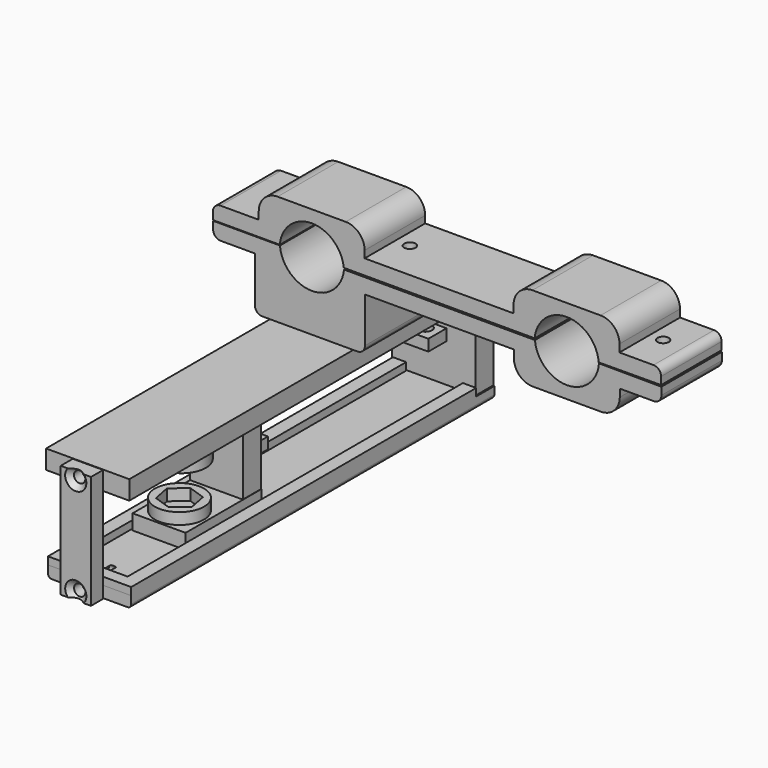
from build123d import *

# Parameters (mm, degrees)
PAD_DEPTH               = 20
SKETCH_R                = 1
HOLE_DEPTH              = 4
HOLE_TIPS_R             = 1
SKETCH005_R             = 1.25
HOLE001_DEPTH           = 10
HOLE001_TIPS_R          = 1.25
FILLET_R                = 2
FILLET001_R             = 2
FILLET002_R             = 5
FILLET003_R             = 5
FILLET004_R             = 2
FILLET005_R             = 2
PAD001_DEPTH            = 20
SKETCH010_R             = 1.5
HOLE002_DEPTH           = 25
FILLET006_R             = 2
FILLET007_R             = 5
FILLET008_R             = 5
FILLET009_R             = 5
FILLET010_R             = 5
FILLET011_R             = 2
BODY002_PLACEMENT_ANGLE = 180
SKETCH012_W             = 22
SKETCH012_H             = 120
PAD002_DEPTH            = 3
PAD003_DEPTH            = 2
SKETCH003_R             = 1
HOLE004_DEPTH           = 25
HOLE004_TIPS_R          = 1
SKETCH004_R             = 1.5
HOLE003_DEPTH           = 25
SKETCH013_R             = 1.25
HOLE005_DEPTH           = 6
BODY_PLACEMENT_ANGLE    = 180
SKETCH014_W             = 22
SKETCH014_H             = 24
PAD004_DEPTH            = 6
SKETCH015_R             = 1.25
HOLE006_DEPTH           = 25
SKETCH002_W             = 7
SKETCH002_H             = 6
SKETCH002_R             = 1.75
PAD005_DEPTH            = 3
BODY003_PLACEMENT_ANGLE = 90
SKETCH016_W             = 8
SKETCH016_H             = 30
PAD006_DEPTH            = 4
HOLE007_D               = 3
HOLE007_DEPTH           = 25
HOLE007_CSINK_D         = 5.6
HOLE007_CSINK_ANGLE     = 90
BODY004_PLACEMENT_ANGLE = 90
SKETCH018_W             = 22
SKETCH018_H             = 120
PAD007_DEPTH            = 3
PAD008_DEPTH            = 2
SKETCH021_R             = 1.5
HOLE009_DEPTH           = 25
SKETCH022_R             = 1.25
HOLE010_DEPTH           = 8
HOLE010_TIPS_R          = 1.25
FILLET012_R             = 1
FILLET013_R             = 1
BODY005_PLACEMENT_ANGLE = 180
SKETCH024_W             = 14
SKETCH024_H             = 25.014092
SKETCH024_R             = 1.5
PAD010_DEPTH            = 4
SKETCH023_R             = 6.5
PAD009_DEPTH            = 3
SKETCH026_W             = 14
SKETCH026_H             = 25.014092
SKETCH026_R             = 1.5
PAD012_DEPTH            = 4
SKETCH025_R             = 6.5
PAD011_DEPTH            = 3
SKETCH027_R             = 3
HOLE011_DEPTH           = 25
BODY007_PLACEMENT_ANGLE = 180
SKETCH028_W             = 14
SKETCH028_H             = 15
PAD013_DEPTH            = 6
SKETCH029_R             = 1.25
HOLE012_DEPTH           = 25
SKETCH030_W             = 8
SKETCH030_H             = 6
SKETCH030_R             = 1.75
PAD014_DEPTH            = 3
BODY008_ROLL_ANGLE      = -90
BODY008_PLACEMENT_ANGLE = 180


with BuildPart() as base_high:
    # Sketch009 → Pad (new body)
    with BuildSketch(Plane.XZ):
        with BuildLine():
            Line((-26.133633, -0.895694), (-8.472145, -0.895694))
            ThreePointArc((-8.472145, -0.895694), (-0.043518, -8.703667), (8.463973, -0.981699))
            Line((8.463973, -0.981699), (58.934597, -0.981699))
            ThreePointArc((58.934597, -0.981699), (67.448074, -8.719684), (75.874185, -0.886654))
            Line((75.874185, -0.886654), (92.37126, -0.974902))
            Line((92.37126, -0.974902), (92.37126, -4.974902))
            Line((81.37126, -4.974902), (92.37126, -4.974902))
            Line((81.37126, -11.974902), (81.37126, -4.974902))
            Line((81.37126, -11.974902), (53.37127, -11.974902))
            Line((53.37127, -4.973421), (53.37127, -11.974902))
            Line((53.37127, -4.973421), (13.999959, -4.973421))
            Line((13.999959, -4.973421), (13.999959, -18.895694))
            Line((13.999959, -18.895694), (-15.133633, -18.895694))
            Line((-15.133633, -18.895694), (-15.133633, -4.895694))
            Line((-26.133633, -4.895694), (-15.133633, -4.895694))
            Line((-26.133633, -4.895694), (-26.133633, -0.895694))
        make_face()
    extrude(amount=PAD_DEPTH)

    # Sketch (on Face2 of Pad) → Hole (cut)
    with BuildSketch(Plane(origin=(0, 0, 0.104306), x_dir=(-1, 0, 0), z_dir=(0, 0, 1))):
        with Locations((-84.91581, 10.087888)):
            Circle(SKETCH_R)
        with Locations((-50.023758, 9.938404)):
            Circle(SKETCH_R)
        with Locations((-17.740429, 9.851715)):
            Circle(SKETCH_R)
        with Locations((17.708694, 9.641117)):
            Circle(SKETCH_R)
    extrude(amount=-HOLE_DEPTH, mode=Mode.SUBTRACT)

    # Hole tips → Hole tip 1 section 0
    with BuildSketch(Plane(origin=(0, 0, -3.895694), x_dir=(-1, 0, 0), z_dir=(0, 0, 1)), mode=Mode.PRIVATE) as hole_tip_1_s0:
        with Locations((-84.91581, 10.087888)):
            Circle(HOLE_TIPS_R)
    loft([hole_tip_1_s0.sketch, Vertex(84.91581, -10.087888, -4.496555)], mode=Mode.SUBTRACT)

    # Hole tips → Hole tip 2 section 0
    with BuildSketch(Plane(origin=(0, 0, -3.895694), x_dir=(-1, 0, 0), z_dir=(0, 0, 1)), mode=Mode.PRIVATE) as hole_tip_2_s0:
        with Locations((-50.023758, 9.938404)):
            Circle(HOLE_TIPS_R)
    loft([hole_tip_2_s0.sketch, Vertex(50.023758, -9.938404, -4.496555)], mode=Mode.SUBTRACT)

    # Hole tips → Hole tip 3 section 0
    with BuildSketch(Plane(origin=(0, 0, -3.895694), x_dir=(-1, 0, 0), z_dir=(0, 0, 1)), mode=Mode.PRIVATE) as hole_tip_3_s0:
        with Locations((-17.740429, 9.851715)):
            Circle(HOLE_TIPS_R)
    loft([hole_tip_3_s0.sketch, Vertex(17.740429, -9.851715, -4.496555)], mode=Mode.SUBTRACT)

    # Hole tips → Hole tip 4 section 0
    with BuildSketch(Plane(origin=(0, 0, -3.895694), x_dir=(-1, 0, 0), z_dir=(0, 0, 1)), mode=Mode.PRIVATE) as hole_tip_4_s0:
        with Locations((17.708694, 9.641117)):
            Circle(HOLE_TIPS_R)
    loft([hole_tip_4_s0.sketch, Vertex(-17.708694, -9.641117, -4.496555)], mode=Mode.SUBTRACT)

    # Sketch005 (on Face19 of Hole) → Hole001 (cut)
    with BuildSketch(Plane(origin=(-11, 74, -19.895694), x_dir=(1, 0, 0), z_dir=(0, 0, -1))):
        with Locations((1.674046, 88.011063)):
            Circle(SKETCH005_R)
        with Locations((20.15472, 88.042435)):
            Circle(SKETCH005_R)
        with Locations((1.645966, 80.010819)):
            Circle(SKETCH005_R)
        with Locations((20.12664, 80.042191)):
            Circle(SKETCH005_R)
    extrude(amount=-HOLE001_DEPTH, mode=Mode.SUBTRACT)

    # Hole001 tips → Hole001 tip 1 section 0
    with BuildSketch(Plane(origin=(-11, 74, -9.895694), x_dir=(1, 0, 0), z_dir=(0, 0, -1)), mode=Mode.PRIVATE) as hole001_tip_1_s0:
        with Locations((1.674046, 88.011063)):
            Circle(HOLE001_TIPS_R)
    loft([hole001_tip_1_s0.sketch, Vertex(-9.325954, -14.011063, -9.144618)], mode=Mode.SUBTRACT)

    # Hole001 tips → Hole001 tip 2 section 0
    with BuildSketch(Plane(origin=(-11, 74, -9.895694), x_dir=(1, 0, 0), z_dir=(0, 0, -1)), mode=Mode.PRIVATE) as hole001_tip_2_s0:
        with Locations((20.15472, 88.042435)):
            Circle(HOLE001_TIPS_R)
    loft([hole001_tip_2_s0.sketch, Vertex(9.15472, -14.042435, -9.144618)], mode=Mode.SUBTRACT)

    # Hole001 tips → Hole001 tip 3 section 0
    with BuildSketch(Plane(origin=(-11, 74, -9.895694), x_dir=(1, 0, 0), z_dir=(0, 0, -1)), mode=Mode.PRIVATE) as hole001_tip_3_s0:
        with Locations((1.645966, 80.010819)):
            Circle(HOLE001_TIPS_R)
    loft([hole001_tip_3_s0.sketch, Vertex(-9.354034, -6.010819, -9.144618)], mode=Mode.SUBTRACT)

    # Hole001 tips → Hole001 tip 4 section 0
    with BuildSketch(Plane(origin=(-11, 74, -9.895694), x_dir=(1, 0, 0), z_dir=(0, 0, -1)), mode=Mode.PRIVATE) as hole001_tip_4_s0:
        with Locations((20.12664, 80.042191)):
            Circle(HOLE001_TIPS_R)
    loft([hole001_tip_4_s0.sketch, Vertex(9.12664, -6.042191, -9.144618)], mode=Mode.SUBTRACT)

    # Fillet
    fillet_edges = [base_high.edges().sort_by_distance(p)[0] for p in [
        (92.37126, -10, -4.974902),
    ]]
    fillet(fillet_edges, radius=FILLET_R)

    # Fillet001
    fillet001_edges = [base_high.edges().sort_by_distance(p)[0] for p in [
        (-26.133633, -10, -4.895694),
    ]]
    fillet(fillet001_edges, radius=FILLET001_R)

    # Fillet002
    fillet002_edges = [base_high.edges().sort_by_distance(p)[0] for p in [
        (53.37127, -10, -11.974902),
    ]]
    fillet(fillet002_edges, radius=FILLET002_R)

    # Fillet003
    fillet003_edges = [base_high.edges().sort_by_distance(p)[0] for p in [
        (81.37126, -10, -11.974902),
    ]]
    fillet(fillet003_edges, radius=FILLET003_R)

    # Fillet004
    fillet004_edges = [base_high.edges().sort_by_distance(p)[0] for p in [
        (13.999959, -10, -18.895694),
    ]]
    fillet(fillet004_edges, radius=FILLET004_R)

    # Fillet005
    fillet005_edges = [base_high.edges().sort_by_distance(p)[0] for p in [
        (-15.133633, -10, -18.895694),
    ]]
    fillet(fillet005_edges, radius=FILLET005_R)


with BuildPart() as base_low:
    # Sketch011 → Pad001 (new body)
    with BuildSketch(Plane.XZ):
        with BuildLine():
            Line((-26.104519, -0.846671), (-8.4399, -0.846671))
            ThreePointArc((-8.4399, -0.846671), (-0.040757, -8.597308), (8.480931, -0.981613))
            Line((8.480931, -0.981613), (58.934592, -0.981613))
            ThreePointArc((58.934592, -0.981613), (67.448034, -8.719682), (75.874188, -0.886654))
            Line((75.874188, -0.886654), (92.37126, -0.974902))
            Line((92.37126, -0.974902), (92.37126, -4.974902))
            Line((81.37126, -4.974902), (92.37126, -4.974902))
            Line((81.37126, -11.974902), (81.37126, -4.974902))
            Line((81.37126, -11.974902), (53.37127, -11.974902))
            Line((53.37127, -4.973421), (53.37127, -11.974902))
            Line((53.37127, -4.973421), (13.999959, -4.973421))
            Line((13.999959, -4.973421), (13.999959, -11.846671))
            Line((13.999959, -11.846671), (-14, -11.846671))
            Line((-14, -11.846671), (-14, -4.846671))
            Line((-26.104519, -4.846671), (-14, -4.846671))
            Line((-26.104519, -4.846671), (-26.104519, -0.846671))
        make_face()
    extrude(amount=PAD001_DEPTH)

    # Sketch010 (on Face2 of Pad001) → Hole002 (cut)
    with BuildSketch(Plane(origin=(0, 0, 0.153329), x_dir=(-1, 0, 0), z_dir=(0, 0, 1))):
        with Locations((-84.910316, 10)):
            Circle(SKETCH010_R)
        with Locations((-50.023346, 10.152982)):
            Circle(SKETCH010_R)
        with Locations((-17.74934, 10.256405)):
            Circle(SKETCH010_R)
        with Locations((17.711233, 10.4449)):
            Circle(SKETCH010_R)
    extrude(amount=-HOLE002_DEPTH, mode=Mode.SUBTRACT)

    # Fillet006
    fillet006_edges = [base_low.edges().sort_by_distance(p)[0] for p in [
        (-26.104519, -10, -4.846671),
    ]]
    fillet(fillet006_edges, radius=FILLET006_R)

    # Fillet007
    fillet007_edges = [base_low.edges().sort_by_distance(p)[0] for p in [
        (-14, -10, -11.846671),
    ]]
    fillet(fillet007_edges, radius=FILLET007_R)

    # Fillet008
    fillet008_edges = [base_low.edges().sort_by_distance(p)[0] for p in [
        (13.999959, -10, -11.846671),
    ]]
    fillet(fillet008_edges, radius=FILLET008_R)

    # Fillet009
    fillet009_edges = [base_low.edges().sort_by_distance(p)[0] for p in [
        (53.37127, -10, -11.974902),
    ]]
    fillet(fillet009_edges, radius=FILLET009_R)

    # Fillet010
    fillet010_edges = [base_low.edges().sort_by_distance(p)[0] for p in [
        (81.37126, -10, -11.974902),
    ]]
    fillet(fillet010_edges, radius=FILLET010_R)

    # Fillet011
    fillet011_edges = [base_low.edges().sort_by_distance(p)[0] for p in [
        (92.37126, -10, -4.974902),
    ]]
    fillet(fillet011_edges, radius=FILLET011_R)


with BuildPart() as base_low_1:
    # Body002 placement: moved
    add(base_low.part.moved(Location((0, -20.1, -1.5))).rotate(Axis((0, -20.1, -1.5), (1, 0, 0)), BODY002_PLACEMENT_ANGLE))


with BuildPart() as obj1:
    # Sketch012 → Pad002 (new body)
    with BuildSketch(Plane.XY):
        with Locations((11, -60)):
            Rectangle(SKETCH012_W, SKETCH012_H)
    extrude(amount=PAD002_DEPTH)

    # Sketch001 (on Face6 of Pad002) → Pad003 (join)
    with BuildSketch(Plane.XY.offset(3)):
        Polygon((3.5, -2.61497), (3.5, -114), (0, -114), (0, 0), (22, 0), (22, -114), (18.5, -114), (18.5, -2.61497), align=None)
    extrude(amount=PAD003_DEPTH)

    # Sketch003 → Hole004 (cut)
    with BuildSketch(Plane(origin=(0, 0, 0), x_dir=(-1, 0, 0), z_dir=(0, 1, 0))):
        with Locations((-11.200401, 1.547459)):
            Circle(SKETCH003_R)
    extrude(amount=-HOLE004_DEPTH, mode=Mode.SUBTRACT)

    # Hole004 tips → Hole004 tip 1 section 0
    with BuildSketch(Plane(origin=(0, -25, 0), x_dir=(-1, 0, 0), z_dir=(0, 1, 0)), mode=Mode.PRIVATE) as hole004_tip_1_s0:
        with Locations((-11.200401, 1.547459)):
            Circle(HOLE004_TIPS_R)
    loft([hole004_tip_1_s0.sketch, Vertex(11.200401, -25.600861, 1.547459)], mode=Mode.SUBTRACT)

    # Sketch004 (on Face8 of Hole004) → Hole003 (cut)
    with BuildSketch(Plane(origin=(0, -20, 3), x_dir=(1, 0, 0), z_dir=(0, 0, 1))):
        with Locations((2.999952, -96.995049)):
            Circle(SKETCH004_R)
        with Locations((19.002949, -97.003365)):
            Circle(SKETCH004_R)
    extrude(amount=-HOLE003_DEPTH, mode=Mode.SUBTRACT)

    # Sketch013 (on Face3 of Hole003) → Hole005 (cut)
    with BuildSketch(Plane(origin=(0, 0, 0), x_dir=(1, 0, 0), z_dir=(0, 0, -1))):
        with Locations((1.674046, 88.011063)):
            Circle(SKETCH013_R)
        with Locations((20.15472, 88.042435)):
            Circle(SKETCH013_R)
        with Locations((1.645966, 80.010819)):
            Circle(SKETCH013_R)
        with Locations((20.12664, 80.042191)):
            Circle(SKETCH013_R)
    extrude(amount=-HOLE005_DEPTH, mode=Mode.SUBTRACT)


with BuildPart() as obj1_1:
    # Body placement: moved
    add(obj1.part.moved(Location((-11.1, -94, -18.9))).rotate(Axis((-11.1, -94, -18.9), (1, 0, 0)), BODY_PLACEMENT_ANGLE))


with BuildPart() as obj2:
    # Sketch014 → Pad004 (new body)
    with BuildSketch(Plane.XY):
        with Locations((-1.824838, 1.178903)):
            Rectangle(SKETCH014_W, SKETCH014_H)
    extrude(amount=PAD004_DEPTH)

    # Sketch015 (on Face1 of Pad004) → Hole006 (cut)
    with BuildSketch(Plane(origin=(0, 13.178903, 0), x_dir=(-1, 0, 0), z_dir=(0, 1, 0))):
        with Locations((-6.167962, 2.99997)):
            Circle(SKETCH015_R)
        with Locations((9.815989, 2.999982)):
            Circle(SKETCH015_R)
    extrude(amount=-HOLE006_DEPTH, mode=Mode.SUBTRACT)

    # Sketch002 → Pad005 (join)
    with BuildSketch(Plane(origin=(-2, 0, 0), x_dir=(1, 0, 0), z_dir=(0, -1, 0))):
        with Locations((0.019359, -3)):
            Rectangle(SKETCH002_W, SKETCH002_H)
        with Locations((0, -2.5736)):
            Circle(SKETCH002_R, mode=Mode.SUBTRACT)
    extrude(amount=-PAD005_DEPTH)


with BuildPart() as obj2_1:
    # Body003 placement: moved
    add(obj2.part.moved(Location((1.8, 20.3, -32.7))).rotate(Axis((1.8, 20.3, -32.7), (-1, 0, 0)), BODY003_PLACEMENT_ANGLE))


with BuildPart() as obj3:
    # Sketch016 → Pad006 (new body)
    with BuildSketch(Plane.XY):
        with Locations((1.427496, 1.970487)):
            Rectangle(SKETCH016_W, SKETCH016_H)
    extrude(amount=PAD006_DEPTH)

    # Hole007
    with Locations(Plane(origin=(0, 0, 0), x_dir=(1, 0, 0), z_dir=(0, 0, -1))):
        with Locations((1.400543, 11.199686), (1.414009, -15.131481)):
            CounterSinkHole(HOLE007_D / 2, HOLE007_CSINK_D / 2, depth=HOLE007_DEPTH, counter_sink_angle=HOLE007_CSINK_ANGLE)


with BuildPart() as obj3_1:
    # Body004 placement: moved
    add(obj3.part.moved(Location((-1.3, -98.2, -31.9))).rotate(Axis((-1.3, -98.2, -31.9), (-1, 0, 0)), BODY004_PLACEMENT_ANGLE))


with BuildPart() as obj4:
    # Sketch018 → Pad007 (new body)
    with BuildSketch(Plane.XY):
        with Locations((11, -40.353557)):
            Rectangle(SKETCH018_W, SKETCH018_H)
    extrude(amount=PAD007_DEPTH)

    # Sketch019 (on Face6 of Pad007) → Pad008 (join)
    with BuildSketch(Plane.XY.offset(3)):
        Polygon((3.5, 16.457877), (3.5, -94.346509), (0, -94.346509), (0, 19.653491), (22.002212, 19.653491), (22.002212, -94.346509), (18.502212, -94.346509), (18.502212, 16.457877), align=None)
    extrude(amount=PAD008_DEPTH)

    # Sketch021 → Hole009 (cut)
    with BuildSketch(Plane(origin=(0, 0, 0), x_dir=(1, 0, 0), z_dir=(0, 0, -1))):
        with Locations((3.245559, 97.395898)):
            Circle(SKETCH021_R)
        with Locations((19.233885, 97.39097)):
            Circle(SKETCH021_R)
    extrude(amount=-HOLE009_DEPTH, mode=Mode.SUBTRACT)

    # Sketch022 (on Face6 of Hole009) → Hole010 (cut)
    with BuildSketch(Plane(origin=(0, 19.646443, 0), x_dir=(-1, 0, 0), z_dir=(0, 1, 0))):
        with Locations((-11.10201, 2.001041)):
            Circle(SKETCH022_R)
    extrude(amount=-HOLE010_DEPTH, mode=Mode.SUBTRACT)

    # Hole010 tips → Hole010 tip 1 section 0
    with BuildSketch(Plane(origin=(0, 11.646443, 0), x_dir=(-1, 0, 0), z_dir=(0, 1, 0)), mode=Mode.PRIVATE) as hole010_tip_1_s0:
        with Locations((-11.10201, 2.001041)):
            Circle(HOLE010_TIPS_R)
    loft([hole010_tip_1_s0.sketch, Vertex(11.10201, 10.895368, 2.001041)], mode=Mode.SUBTRACT)

    # Fillet012
    fillet012_edges = [obj4.edges().sort_by_distance(p)[0] for p in [
        (22, -40.353557, 0),
    ]]
    fillet(fillet012_edges, radius=FILLET012_R)

    # Fillet013
    fillet013_edges = [obj4.edges().sort_by_distance(p)[0] for p in [
        (0, -40.353557, 0),
    ]]
    fillet(fillet013_edges, radius=FILLET013_R)


with BuildPart() as obj4_1:
    # Body005 placement: moved
    add(obj4.part.moved(Location((11.2, -74.1, -49))).rotate(Axis((11.2, -74.1, -49), (0, 0, 1)), BODY005_PLACEMENT_ANGLE))


with BuildPart() as obj5:
    # Sketch024 → Pad010 (new body)
    with BuildSketch(Plane(origin=(0, 0, 0), x_dir=(1, 0, 0), z_dir=(0, 0, -1))):
        with Locations((0.226722, -6.492953)):
            Rectangle(SKETCH024_W, SKETCH024_H)
        with Locations((-4.0252, -16.190002)):
            Circle(SKETCH024_R, mode=Mode.SUBTRACT)
        with Locations((4.6748, -16.190188)):
            Circle(SKETCH024_R, mode=Mode.SUBTRACT)
    extrude(amount=PAD010_DEPTH)

    # Sketch023 → Pad009 (join)
    with BuildSketch(Plane(origin=(0, 1, 0), x_dir=(1, 0, 0), z_dir=(0, 0, 1))):
        Circle(SKETCH023_R)
        Polygon((4.589203, -1.568188), (3.652692, 3.190273), (-0.936511, 4.758461), (-4.589203, 1.568188), (-3.652692, -3.190273), (0.936511, -4.758461), align=None, mode=Mode.SUBTRACT)
    extrude(amount=PAD009_DEPTH)


with BuildPart() as obj5_1:
    # Body006 placement: moved
    add(obj5.part.moved(Location((0, -64.8, -42))))


with BuildPart() as obj5_socket:
    # Sketch026 → Pad012 (new body)
    with BuildSketch(Plane(origin=(0, 0, 0), x_dir=(1, 0, 0), z_dir=(0, 0, -1))):
        with Locations((0.226722, -6.492953)):
            Rectangle(SKETCH026_W, SKETCH026_H)
        with Locations((-4.0252, -16.190002)):
            Circle(SKETCH026_R, mode=Mode.SUBTRACT)
        with Locations((4.6748, -16.190188)):
            Circle(SKETCH026_R, mode=Mode.SUBTRACT)
    extrude(amount=PAD012_DEPTH)

    # Sketch025 → Pad011 (join)
    with BuildSketch(Plane(origin=(0, 1, 0), x_dir=(1, 0, 0), z_dir=(0, 0, 1))):
        Circle(SKETCH025_R)
        Polygon((4.589203, -1.568188), (3.652692, 3.190273), (-0.936511, 4.758461), (-4.589203, 1.568188), (-3.652692, -3.190273), (0.936511, -4.758461), align=None, mode=Mode.SUBTRACT)
    extrude(amount=PAD011_DEPTH)

    # Sketch027 (on Face17 of Pad011) → Hole011 (cut)
    with BuildSketch(Plane.XY):
        with Locations((-0.035548, 0.970795)):
            Circle(SKETCH027_R)
    extrude(amount=-HOLE011_DEPTH, mode=Mode.SUBTRACT)


with BuildPart() as obj5_socket_1:
    # Body007 placement: moved
    add(obj5_socket.part.moved(Location((0.5, -64.8, -26.8))).rotate(Axis((0.5, -64.8, -26.8), (0, 1, 0)), BODY007_PLACEMENT_ANGLE))


with BuildPart() as obj6:
    # Sketch028 → Pad013 (new body)
    with BuildSketch(Plane.XY):
        with Locations((-0.016869, 0.350476)):
            Rectangle(SKETCH028_W, SKETCH028_H)
    extrude(amount=PAD013_DEPTH)

    # Sketch029 (on Face1 of Pad013) → Hole012 (cut)
    with BuildSketch(Plane(origin=(0, 7.850476, 0), x_dir=(-1, 0, 0), z_dir=(0, 1, 0))):
        with Locations((-4.212216, 2.680323)):
            Circle(SKETCH029_R)
        with Locations((4.487751, 2.704111)):
            Circle(SKETCH029_R)
    extrude(amount=-HOLE012_DEPTH, mode=Mode.SUBTRACT)

    # Sketch030 → Pad014 (join)
    with BuildSketch(Plane.XZ.offset(-2)):
        with Locations((-0.059057, -3)):
            Rectangle(SKETCH030_W, SKETCH030_H)
        with Locations((0, -2.5736)):
            Circle(SKETCH030_R, mode=Mode.SUBTRACT)
    extrude(amount=PAD014_DEPTH)


with BuildPart() as obj6_1:
    # Body008 roll: moved
    add(obj6.part.rotate(Axis((0, 0, 0), (1, 0, 0)), BODY008_ROLL_ANGLE))


with BuildPart() as obj6_2:
    # Body008 placement: moved
    add(obj6_1.part.moved(Location((0.2, -45.9, -34.1))).rotate(Axis((0.2, -45.9, -34.1), (0, 0, 1)), BODY008_PLACEMENT_ANGLE))


solid = Compound([base_high.part, base_low_1.part, obj1_1.part, obj2_1.part, obj3_1.part, obj4_1.part, obj5_1.part, obj5_socket_1.part, obj6_2.part])
